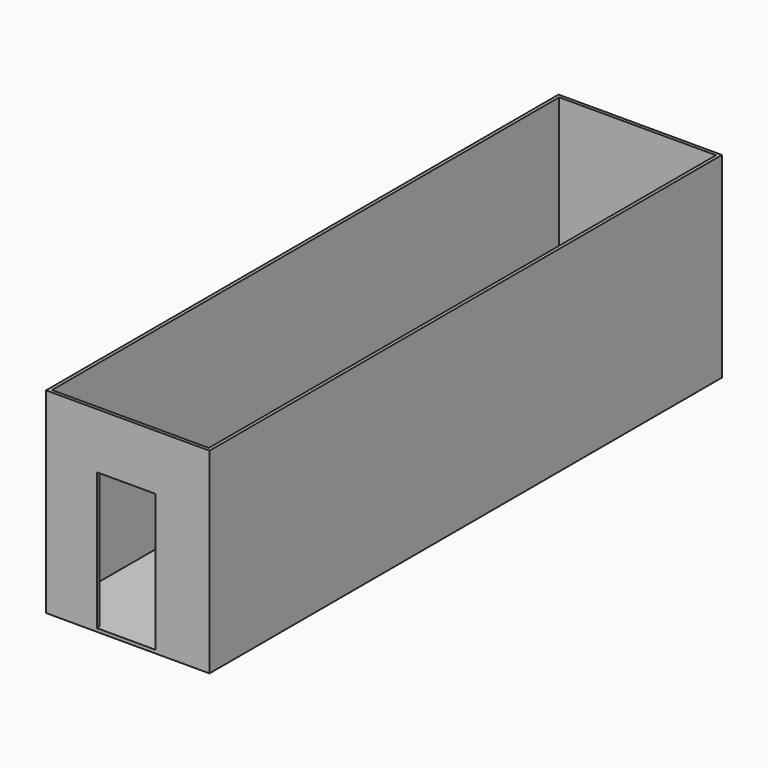
from build123d import *

# Parameters (mm, degrees)
F0_W     = 2500
F0_H     = 9800
F1_DEPTH = 3000
F2_T     = -50
F3_W     = 900
F3_H     = 2100
F4_DEPTH = 50


with BuildPart() as f1:
    # F0 (on Top) → F1 (new body)
    with BuildSketch(Plane.XY):
        Rectangle(F0_W, F0_H)
    extrude(amount=F1_DEPTH)

    # F2
    f2_openings = [f1.faces().sort_by_distance(p)[0] for p in [
        (0, 0, 3000),
    ]]
    offset(amount=F2_T, openings=f2_openings)

    # F3 (on face) → F4 (cut)
    with BuildSketch(Plane.XZ.offset(4900)):
        with Locations((-23.530175, 1100)):
            Rectangle(F3_W, F3_H)
    extrude(amount=-F4_DEPTH, mode=Mode.SUBTRACT)


solid = f1.part
